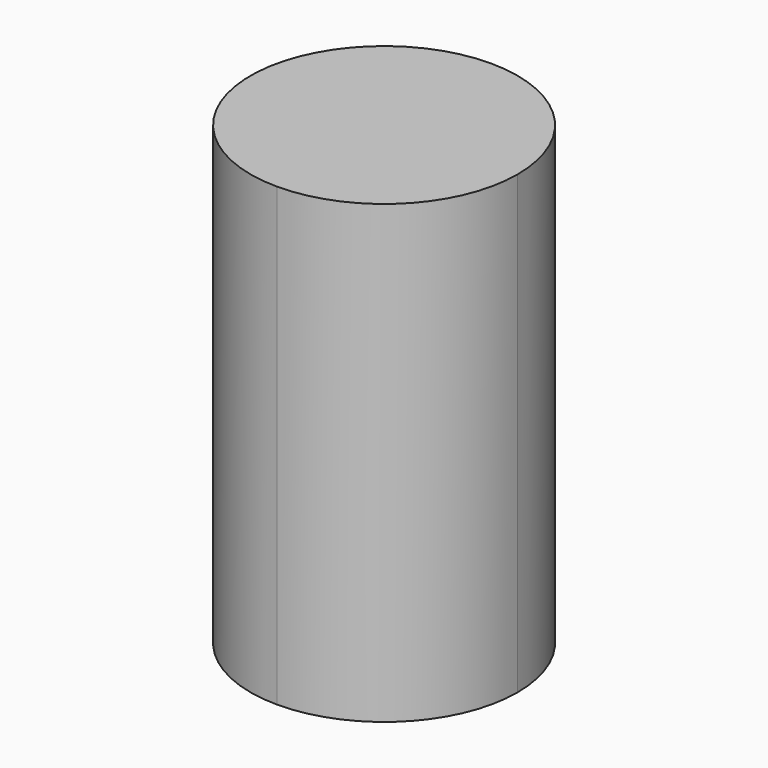
from build123d import *

# Parameters (mm, degrees)
F0_W     = 107.82598
F0_H     = 74.384294
F1_DEPTH = 63.5
F3_DEPTH = 127.001


with BuildPart() as f1:
    # F0 (on Top) → F1 (new body, symmetric)
    with BuildSketch(Plane.XY):
        Rectangle(F0_W, F0_H)
    extrude(amount=F1_DEPTH, both=True)

    # F2 (on face) → F3 (cut, through all)
    with BuildSketch(Plane.XY.offset(63.5)):
        with BuildLine():
            ThreePointArc((0, -37.192147), (-37.192147, 0), (0, 37.192147))
            Line((0, 37.192147), (-53.91299, 37.192147))
            Line((-53.91299, 37.192147), (-53.91299, -37.192147))
            Line((-53.91299, -37.192147), (0, -37.192147))
        make_face()
        with BuildLine():
            ThreePointArc((0, 37.192147), (26.29882, 26.29882), (37.192147, 0))
            ThreePointArc((37.192147, 0), (26.29882, -26.29882), (0, -37.192147))
            Line((0, -37.192147), (53.91299, -37.192147))
            Line((53.91299, -37.192147), (53.91299, 37.192147))
            Line((53.91299, 37.192147), (0, 37.192147))
        make_face()
    extrude(amount=-F3_DEPTH, mode=Mode.SUBTRACT)


solid = f1.part
